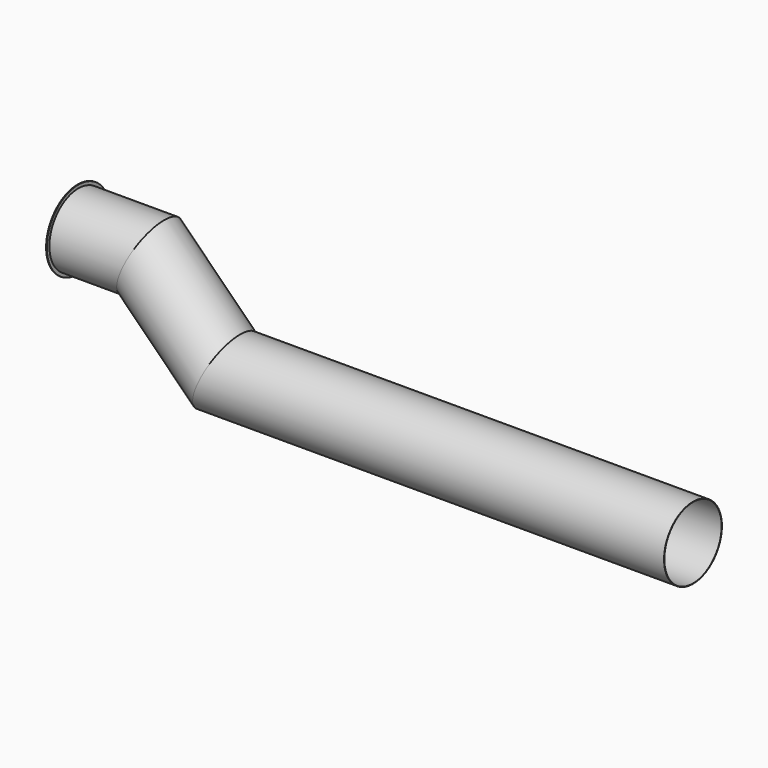
from build123d import *

# Parameters (mm, degrees)
F1_R     = 505
F1_R_2   = 500
F3_R     = 550
F3_R_2   = 500
F4_DEPTH = 10


with BuildPart() as f2:
    # F2: sweep along a path in F0
    with BuildLine(Plane.XZ) as f2_path:
        Line((0, 0), (1000, 0))
        Line((1000, 0), (2060, -1060))
        Line((2060, -1060), (8590, -1060))
    # F1 (on Right) → F2 (sweep)
    with BuildSketch(Plane.YZ):
        Circle(F1_R)
        Circle(F1_R_2, mode=Mode.SUBTRACT)
    sweep(path=f2_path.line, transition=Transition.RIGHT)

    # F3 (on face) → F4 (join)
    with BuildSketch(Plane(origin=(0, 0, 0), x_dir=(0, -1, 0), z_dir=(-1, 0, 0))):
        Circle(F3_R)
        Circle(F3_R_2, mode=Mode.SUBTRACT)
    extrude(amount=-F4_DEPTH)


solid = f2.part
